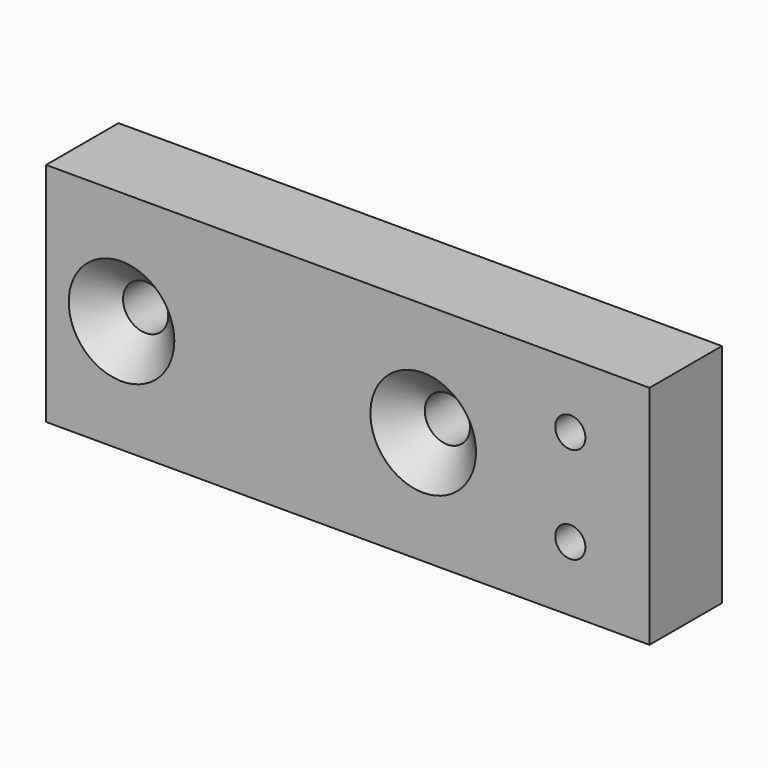
from build123d import *

# Parameters (mm, degrees)
F0_W     = 40
F0_H     = 15
F0_R     = 1
F0_R_2   = 1.5
F1_DEPTH = 6
F2_SIZE  = 2


with BuildPart() as f1:
    # F0 (on Front) → F1 (new body)
    with BuildSketch(Plane.XZ):
        Rectangle(F0_W, F0_H)
        with Locations((14.75, -3.2)):
            Circle(F0_R, mode=Mode.SUBTRACT)
        with Locations((-15, 0)):
            Circle(F0_R_2, mode=Mode.SUBTRACT)
        with Locations((5, 0)):
            Circle(F0_R_2, mode=Mode.SUBTRACT)
        with Locations((14.75, 3.2)):
            Circle(F0_R, mode=Mode.SUBTRACT)
    extrude(amount=F1_DEPTH)

    # F2
    f2_edges = [f1.edges().sort_by_distance(p)[0] for p in [
        (-16.5, -6, 0),
        (3.5, -6, 0),
    ]]
    chamfer(f2_edges, length=F2_SIZE)


solid = f1.part
